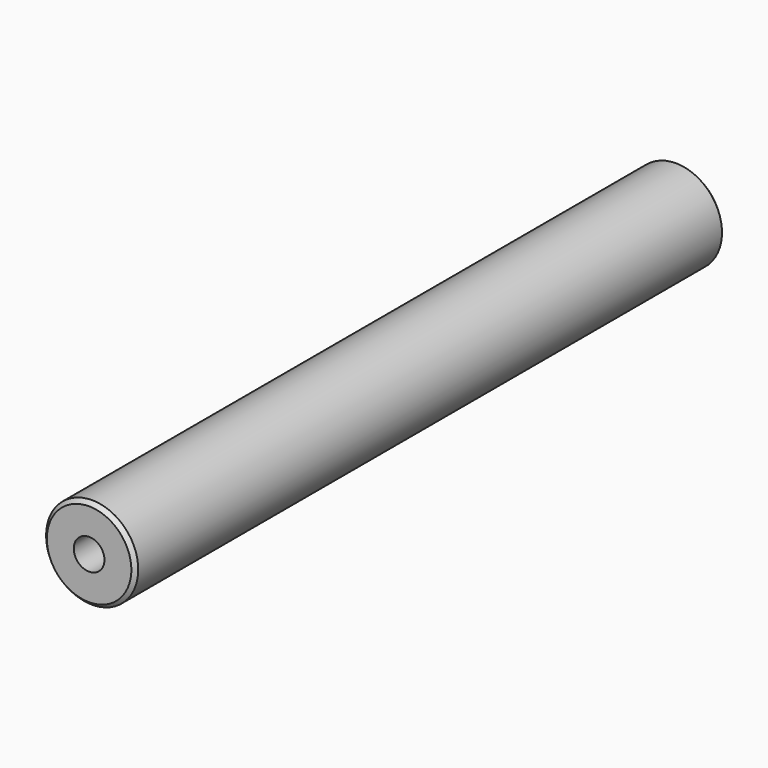
from build123d import *

# Parameters (mm, degrees)
F1_DEPTH = 76.2
F2_SIZE  = 0.79375
F3_DEPTH = 25.4
F4_R     = 0.762


with BuildPart() as f1:
    # F0 (on Front) → F1 (new body, symmetric)
    with BuildSketch(Plane.XZ):
        with BuildLine():
            ThreePointArc((-3.175, 0), (0, 3.175), (3.175, 0))
            Line((3.175, 0), (9.525, 0))
            ThreePointArc((9.525, 0), (0, 9.525), (-9.525, 0))
            Line((-9.525, 0), (-3.175, 0))
        make_face()
        with BuildLine():
            Line((9.525, 0), (3.175, 0))
            ThreePointArc((3.175, 0), (0, -3.175), (-3.175, 0))
            Line((-3.175, 0), (-9.525, 0))
            ThreePointArc((-9.525, 0), (0, -9.525), (9.525, 0))
        make_face()
    extrude(amount=F1_DEPTH, both=True)

    # F2
    f2_edges = [f1.edges().sort_by_distance(p)[0] for p in [
        (9.525, 76.2, 0),
        (9.525, -76.2, 0),
    ]]
    chamfer(f2_edges, length=F2_SIZE)


with BuildPart() as f3:
    # F0 (on Front) → F3 (new body, symmetric)
    with BuildSketch(Plane.XZ):
        with BuildLine():
            Line((-3.175, 0), (3.175, 0))
            ThreePointArc((3.175, 0), (0, 3.175), (-3.175, 0))
        make_face()
        with BuildLine():
            ThreePointArc((-3.175, 0), (0, -3.175), (3.175, 0))
            Line((3.175, 0), (-3.175, 0))
        make_face()
    extrude(amount=F3_DEPTH, both=True)

    # F4
    f4_edges = [f3.edges().sort_by_distance(p)[0] for p in [
        (3.175, -25.4, 0),
        (3.175, 25.4, 0),
    ]]
    fillet(f4_edges, radius=F4_R)


solid = Compound([f1.part, f3.part])
